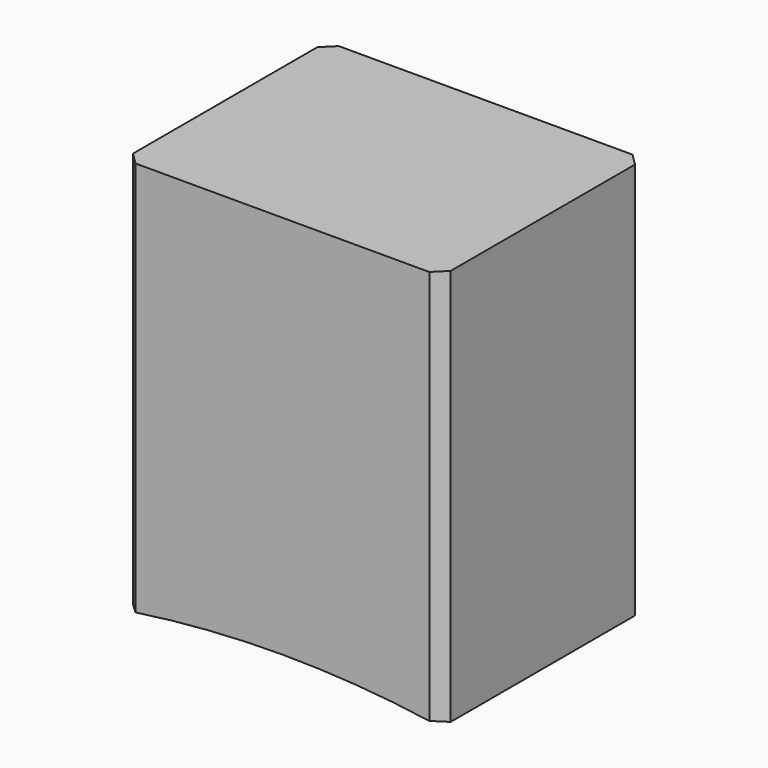
from build123d import *

# Parameters (mm, degrees)
F1_DEPTH = 81.28
F2_SIZE  = 3.81


with BuildPart() as f1:
    # F0 (on Front) → F1 (new body)
    with BuildSketch(Plane.XZ):
        with BuildLine():
            ThreePointArc((-43.136145, 0), (7.663855, 3.993274), (58.463855, 0))
            Line((58.463855, 0), (58.463855, 127))
            Line((58.463855, 127), (-43.136145, 127))
            Line((-43.136145, 127), (-43.136145, 0))
        make_face()
    extrude(amount=F1_DEPTH)

    # F2
    f2_edges = [f1.edges().sort_by_distance(p)[0] for p in [
        (-43.136145, -81.28, 63.5),
        (58.463855, -81.28, 63.5),
        (-43.136145, 0, 63.5),
        (58.463855, 0, 63.5),
    ]]
    chamfer(f2_edges, length=F2_SIZE)


solid = f1.part
